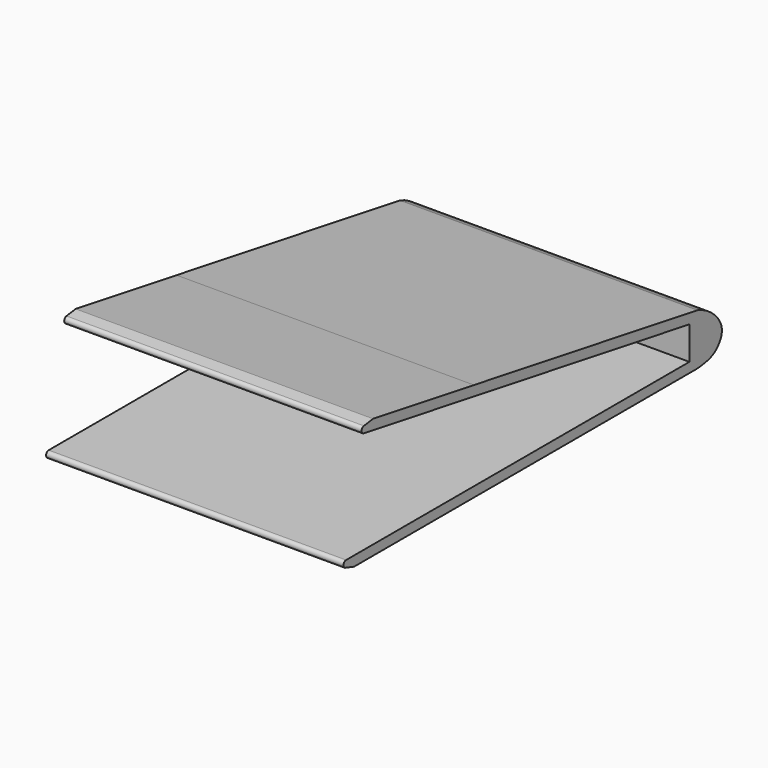
from build123d import *

# Parameters (mm, degrees)
F1_DEPTH = 20
F2_DEPTH = 25
F3_R     = 0.5


with BuildPart() as f1:
    # F0 (on Right) → F1 (new body, symmetric)
    with BuildSketch(Plane.YZ):
        with BuildLine():
            Line((-41, 12), (0, 5))
            Line((0, 5), (0, 0))
            Line((0, 0), (-13, 0))
            Line((-13, 0), (-60, 0))
            Line((-60, 0), (-68.1802767269, 0))
            Line((-68.1802767269, 0), (-63.4105807199, -1.5))
            Line((-63.4105807199, -1.5), (-15.9391719951, -1.5))
            Line((-15.9391719951, -1.5), (1.5, -1.5))
            add(Edge.make_bspline(
                [(1.5, 6.265607391), (3.9644898677, 5.4991167031), (6.8949081715, 2.4881725012), (5.5893039586, -0.1081592765), (4.0791571197, -1.2143747147), (2.4017938603, -1.4076838823), (1.5, -1.5)],
                knots=[0, 0, 0, 0, 0.3589021343, 0.5755750332, 0.7680765927, 1, 1, 1, 1], degree=3))
            Line((1.5, 6.265607391), (-40.7475553057, 13.4786046383))
            Line((-40.7475553057, 13.4786046383), (-59.8354584084, 16.7375149241))
            Line((-59.8354584084, 16.7375149241), (-64.7895661956, 16.0616332529))
            Line((-64.7895661956, 16.0616332529), (-60, 15.243902439))
            Line((-60, 15.243902439), (-41, 12))
        make_face()
    extrude(amount=F1_DEPTH, both=True)

    # F0 (on Right) → F2 (join)
    with BuildSketch(Plane.YZ):
        with BuildLine():
            Line((-41, 12), (0, 5))
            Line((0, 5), (0, 0))
            Line((0, 0), (-13, 0))
            Line((-13, 0), (-60, 0))
            Line((-60, 0), (-68.1802767269, 0))
            Line((-68.1802767269, 0), (-63.4105807199, -1.5))
            Line((-63.4105807199, -1.5), (-15.9391719951, -1.5))
            Line((-15.9391719951, -1.5), (1.5, -1.5))
            add(Edge.make_bspline(
                [(1.5, 6.265607391), (3.9644898677, 5.4991167031), (6.8949081715, 2.4881725012), (5.5893039586, -0.1081592765), (4.0791571197, -1.2143747147), (2.4017938603, -1.4076838823), (1.5, -1.5)],
                knots=[0, 0, 0, 0, 0.3589021343, 0.5755750332, 0.7680765927, 1, 1, 1, 1], degree=3))
            Line((1.5, 6.265607391), (-40.7475553057, 13.4786046383))
            Line((-40.7475553057, 13.4786046383), (-59.8354584084, 16.7375149241))
            Line((-59.8354584084, 16.7375149241), (-64.7895661956, 16.0616332529))
            Line((-64.7895661956, 16.0616332529), (-60, 15.243902439))
            Line((-60, 15.243902439), (-41, 12))
        make_face()
    extrude(amount=F2_DEPTH)

    # F3
    f3_edges = [f1.edges().sort_by_distance(p)[0] for p in [
        (2.5, -64.789566, 16.061633),
        (2.5, -68.180277, 0),
    ]]
    fillet(f3_edges, radius=F3_R)


solid = f1.part
